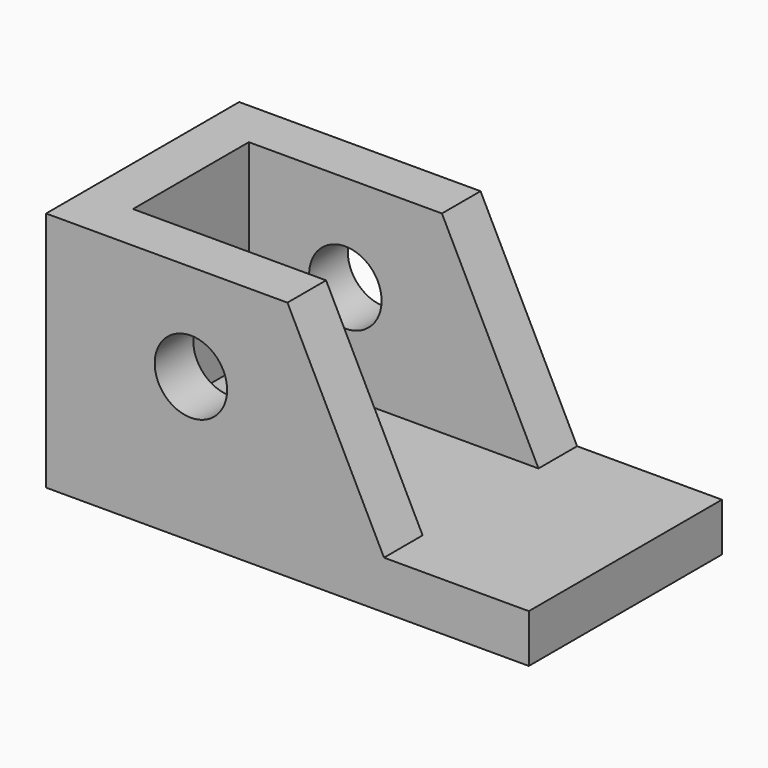
from build123d import *

# Parameters (mm, degrees)
F1_DEPTH = 25
F2_W     = 20
F2_H     = 30
F2_W_2   = 40
F3_DEPTH = 40
F4_R     = 7.5
F5_DEPTH = 50.001


with BuildPart() as f1:
    # F0 (on Front) → F1 (new body, symmetric)
    with BuildSketch(Plane.XZ):
        Polygon((0, 50), (0, 0), (100, 0), (100, 10), (70, 10), (50, 50), align=None)
    extrude(amount=F1_DEPTH, both=True)

    # F2 (on face) → F3 (cut, through all)
    with BuildSketch(Plane.XY.offset(50)):
        with Locations((60, 0)):
            Rectangle(F2_W, F2_H)
        with Locations((30, 0)):
            Rectangle(F2_W_2, F2_H)
    extrude(amount=-F3_DEPTH, mode=Mode.SUBTRACT)

    # F4 (on face) → F5 (cut, through all)
    with BuildSketch(Plane.XZ.offset(25)):
        with Locations((30, 30)):
            Circle(F4_R)
    extrude(amount=-F5_DEPTH, mode=Mode.SUBTRACT)


solid = f1.part
